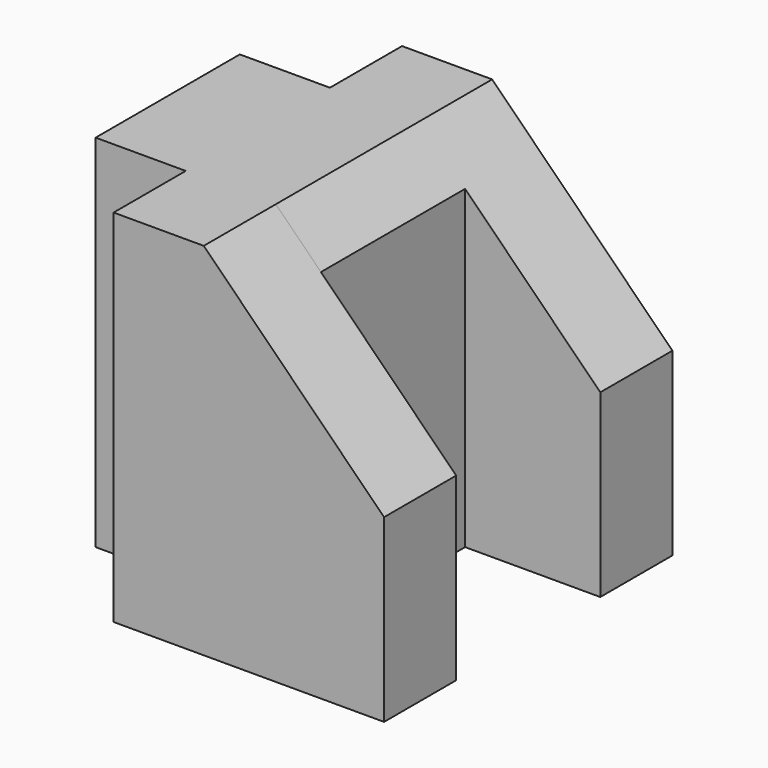
from build123d import *

# Parameters (mm, degrees)
F1_DEPTH = 12.7
F3_DEPTH = 25.4
F5_DEPTH = 12.7


with BuildPart() as f1:
    # F0 (on Front) → F1 (new body)
    with BuildSketch(Plane.XZ):
        Polygon((0, 50.8), (0, 0), (38.1, 0), (38.1, 25.4), (12.7, 50.8), align=None)
    extrude(amount=F1_DEPTH)

    # F2 (on face) → F3 (join)
    with BuildSketch(Plane.XZ.offset(12.7)):
        Polygon((-12.7, 0), (0, 0), (19.05, 0), (19.05, 44.45), (12.7, 50.8), (0, 50.8), (-12.7, 50.8), align=None)
    extrude(amount=F3_DEPTH)

    # F4 (on face) → F5 (join)
    with BuildSketch(Plane.XZ.offset(38.1)):
        Polygon((0, 50.8), (0, 0), (38.109031, 0), (38.109031, 25.4), (12.7, 50.8), align=None)
    extrude(amount=F5_DEPTH)


solid = f1.part
